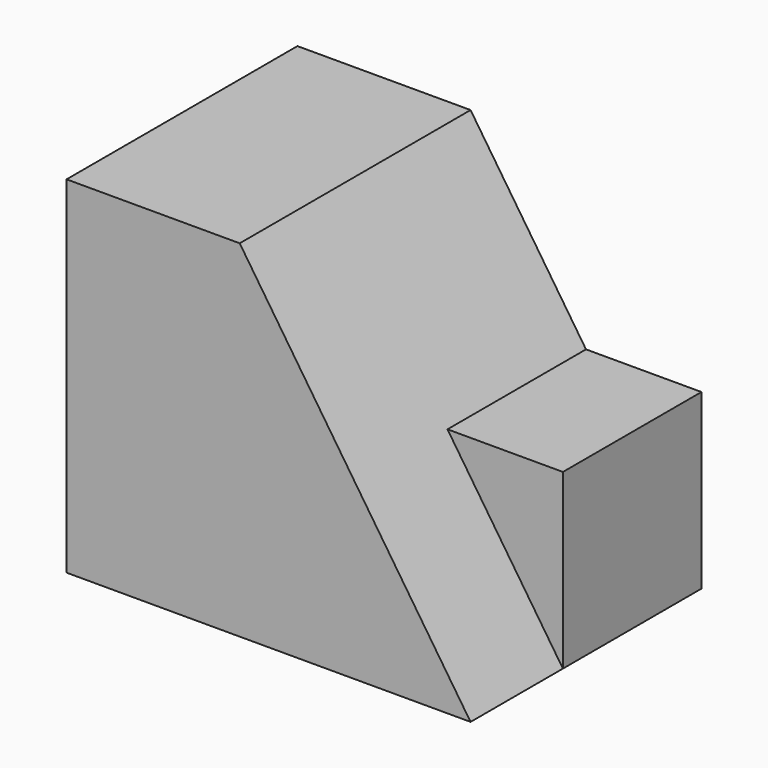
from build123d import *

# Parameters (mm, degrees)
F1_DEPTH = 31.75
F2_W     = 19.05
F2_H     = 19.05
F3_DEPTH = 44.45


with BuildPart() as f1:
    # F0 (on Front) → F1 (new body)
    with BuildSketch(Plane.XZ):
        Polygon((-39.762487, 58.460217), (-58.812487, 58.460217), (-58.812487, 20.360217), (-14.362487, 20.360217), align=None)
    extrude(amount=F1_DEPTH)

    # F2 (on face) → F3 (join)
    with BuildSketch(Plane(origin=(-58.812487, 0, 0), x_dir=(0, -1, 0), z_dir=(-1, 0, 0))):
        with Locations((9.525, 29.885217)):
            Rectangle(F2_W, F2_H)
    extrude(amount=-F3_DEPTH)


solid = f1.part
